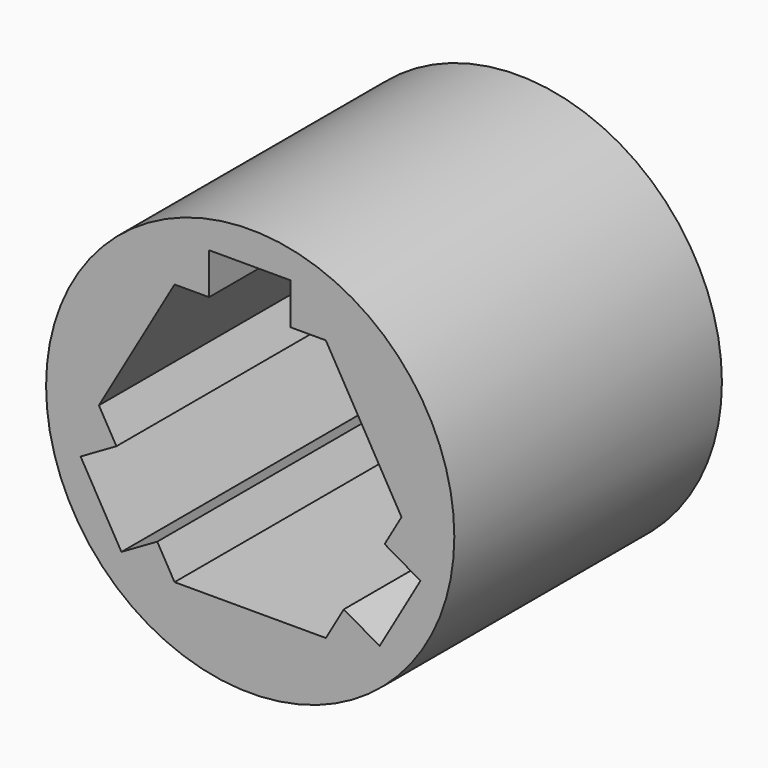
from build123d import *

# Parameters (mm, degrees)
F0_R     = 7.75
F1_DEPTH = 12.7


with BuildPart() as f1:
    # F0 (on Front) → F1 (new body)
    with BuildSketch(Plane.XZ):
        Circle(F0_R)
        Polygon((2.8723175892, 4.975), (5.7446351784, 0), (5.1041839042, -1.1092941468), (6.4638437881, -1.8942941468), (4.9138437881, -4.5789728985), (3.5541839042, -3.7939728985), (2.8723175892, -4.975), (-2.8723175892, -4.975), (-3.5298057657, -3.8361970729), (-4.8894656497, -4.6211970729), (-6.4394656497, -1.9365183212), (-5.0798057657, -1.1515183212), (-5.7446351784, 0), (-2.8723175892, 4.975), (-1.5612237895, 4.975), (-1.5612237895, 6.545), (1.5387762105, 6.545), (1.5387762105, 4.975), align=None, mode=Mode.SUBTRACT)
    extrude(amount=F1_DEPTH)


with BuildPart() as f2_1:
    # F2: copy of F1
    add(f1.part)


solid = Compound([f1.part, f2_1.part])
